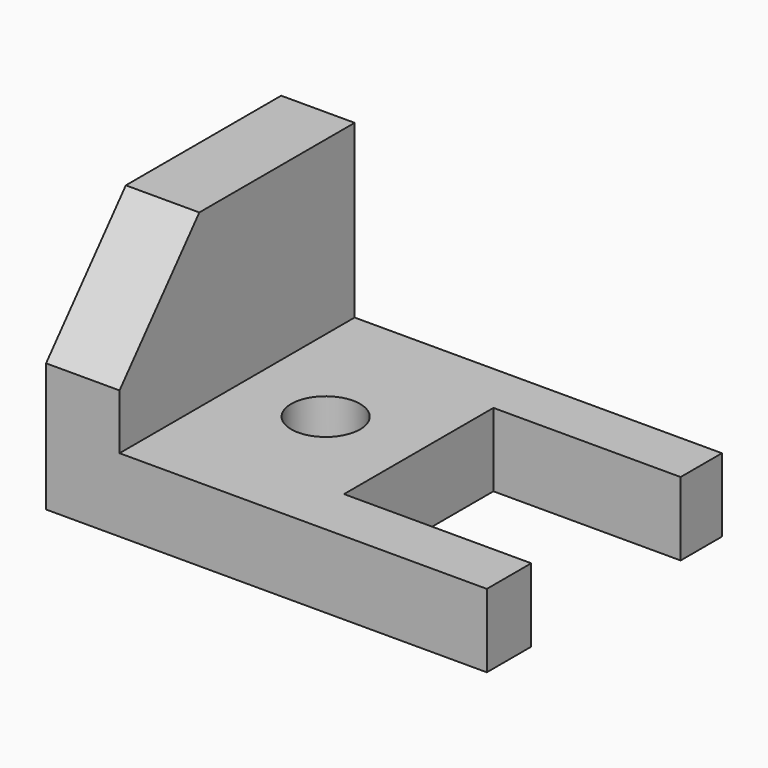
from build123d import *

# Parameters (mm, degrees)
F1_DEPTH = 76.2
F4_DEPTH = 114.301
F5_DEPTH = 114.301
F6_W     = 48.55076
F6_H     = 23.712237
F6_H_2   = 24.714869
F7_DEPTH = 19.051
F8_R     = 8.936908
F9_DEPTH = 19.051


with BuildPart() as f1:
    # F0 (on Front) → F1 (new body)
    with BuildSketch(Plane.XZ):
        Polygon((-30.005424, 30.119236), (-49.055424, 30.119236), (-49.055424, -33.380764), (65.244576, -33.380764), (65.244576, -14.330764), (-30.005424, -14.330764), align=None)
    extrude(amount=F1_DEPTH)

    # F3 (on face) → F4 (cut, through all)
    with BuildSketch(Plane(origin=(-49.055424, 0, 0), x_dir=(0, -1, 0), z_dir=(-1, 0, 0))):
        Polygon((76.2, 0), (76.2, 30.119236), (50.347358, 30.119236), align=None)
    extrude(amount=-F4_DEPTH, mode=Mode.SUBTRACT)

    # F2 (on face) → F5 (cut, through all)
    with BuildSketch(Plane(origin=(-49.055424, 0, 0), x_dir=(0, -1, 0), z_dir=(-1, 0, 0))):
        Polygon((76.2, 30.119236), (50.347358, 30.119236), (76.2, 0), align=None)
    extrude(amount=-F5_DEPTH, mode=Mode.SUBTRACT)

    # F6 (on face) → F7 (cut, through all)
    with BuildSketch(Plane.XY.offset(-14.330764)):
        with Locations((40.969196, -49.956119)):
            Rectangle(F6_W, F6_H)
        with Locations((40.969196, -25.742566)):
            Rectangle(F6_W, F6_H_2)
    extrude(amount=-F7_DEPTH, mode=Mode.SUBTRACT)

    # F8 (on face) → F9 (cut, through all)
    with BuildSketch(Plane.XY.offset(-14.330764)):
        with Locations((-7.438298, -37.598684)):
            Circle(F8_R)
    extrude(amount=-F9_DEPTH, mode=Mode.SUBTRACT)


solid = f1.part
